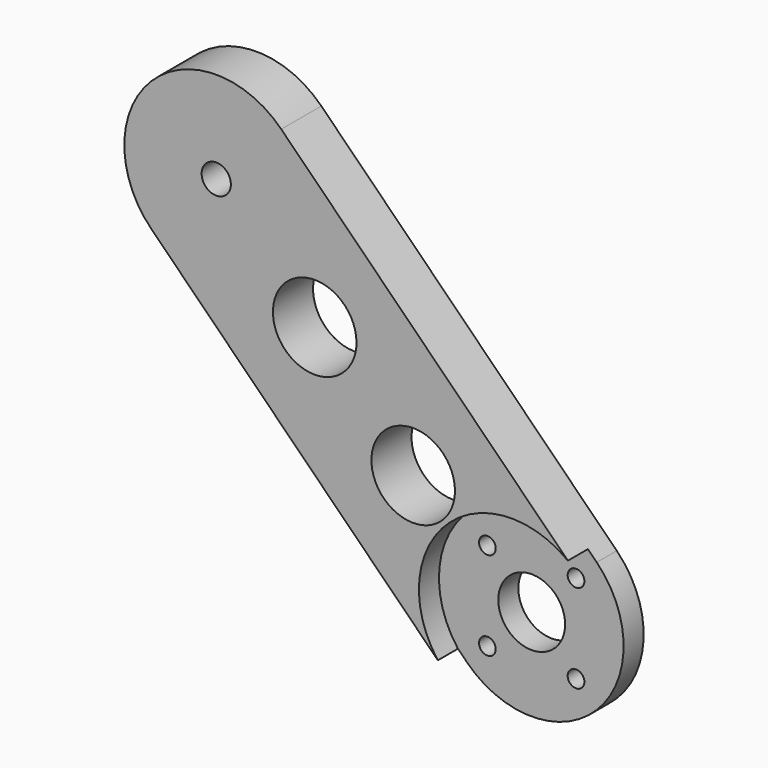
from build123d import *

# Parameters (mm, degrees)
CYLINDER020_R             = 11.1
CYLINDER020_DEPTH         = 26
CYLINDER019_R             = 4
CYLINDER019_DEPTH         = 43
CYLINDER021_R             = 1
CYLINDER021_DEPTH         = 31
CYLINDER024_R             = 1
CYLINDER024_DEPTH         = 31
CYLINDER023_R             = 1
CYLINDER023_DEPTH         = 31
CYLINDER022_R             = 1
CYLINDER022_DEPTH         = 31
FUSION002_ROLL_ANGLE      = -90
FUSION003_PLACEMENT_ANGLE = 180
SKETCH_R                  = 5
SKETCH_R_2                = 1.75
PAD_DEPTH                 = 6
CUT_PITCH_ANGLE           = 90
CLONE018_PITCH_ANGLE      = 45


with BuildPart() as cylinder141:
    # Cylinder020 → Cylinder020 (new body)
    with BuildSketch(Plane(origin=(-3, 71, 73), x_dir=(0, 0, 1), z_dir=(0, -1, 0))):
        Circle(CYLINDER020_R)
    extrude(amount=CYLINDER020_DEPTH)


with BuildPart() as fusion001:
    # Cylinder019 → Cylinder019 (new body)
    with BuildSketch(Plane(origin=(-3, 66, 73), x_dir=(0, 0, 1), z_dir=(0, -1, 0))):
        Circle(CYLINDER019_R)
    extrude(amount=CYLINDER019_DEPTH)

    # Fusion001: union Cylinder141
    add(cylinder141.part)


with BuildPart() as cylinder096:
    # Cylinder021 → Cylinder021 (new body)
    with BuildSketch(Plane(origin=(-7.5, -11, 132), x_dir=(1, 0, 0), z_dir=(0, 0, 1))):
        Circle(CYLINDER021_R)
    extrude(amount=CYLINDER021_DEPTH)


with BuildPart() as cylinder146:
    # Cylinder024 → Cylinder024 (new body)
    with BuildSketch(Plane(origin=(0, -3.5, 132), x_dir=(1, 0, 0), z_dir=(0, 0, 1))):
        Circle(CYLINDER024_R)
    extrude(amount=CYLINDER024_DEPTH)


with BuildPart() as cylinder145:
    # Cylinder023 → Cylinder023 (new body)
    with BuildSketch(Plane(origin=(7.5, -11, 132), x_dir=(1, 0, 0), z_dir=(0, 0, 1))):
        Circle(CYLINDER023_R)
    extrude(amount=CYLINDER023_DEPTH)


with BuildPart() as fusion003:
    # Cylinder022 → Cylinder022 (new body)
    with BuildSketch(Plane(origin=(0, -18.5, 132), x_dir=(1, 0, 0), z_dir=(0, 0, 1))):
        Circle(CYLINDER022_R)
    extrude(amount=CYLINDER022_DEPTH)

    # Fusion002: union Cylinder096, Cylinder146, Cylinder145
    add(cylinder096.part)
    add(cylinder146.part)
    add(cylinder145.part)


with BuildPart() as fusion003_1:
    # Fusion002 roll: moved
    add(fusion003.part.rotate(Axis((0, 0, 0), (1, 0, 0)), FUSION002_ROLL_ANGLE))


with BuildPart() as fusion003_2:
    # Fusion002 placement: moved
    add(fusion003_1.part.moved(Location((-3, -97.5, 62))))

    # Fusion003: union Fusion001
    add(fusion001.part)


with BuildPart() as fusion003_3:
    # Fusion003 placement: moved
    add(fusion003_2.part.moved(Location((-0.5, 88, -87))).rotate(Axis((-0.5, 88, -87), (0, 0, 1)), FUSION003_PLACEMENT_ANGLE))


with BuildPart() as clone_of_clone_of_cut:
    # Sketch → Pad (new body)
    with BuildSketch(Plane(origin=(-11.5, 40, -16.5), x_dir=(0, 0, -1), z_dir=(0, 1, 0))):
        with BuildLine():
            Line((-2.5, -3), (47.5, -3))
            ThreePointArc((47.5, -25), (58.5, -14), (47.5, -3))
            Line((-2.5, -25), (47.5, -25))
            ThreePointArc((-2.5, -3), (-13.5, -14), (-2.5, -25))
        make_face()
        with Locations((14.166667, -14)):
            Circle(SKETCH_R, mode=Mode.SUBTRACT)
        with Locations((30.833333, -14)):
            Circle(SKETCH_R, mode=Mode.SUBTRACT)
        with Locations((47.5, -14)):
            Circle(SKETCH_R_2, mode=Mode.SUBTRACT)
    extrude(amount=PAD_DEPTH)

    # Cut: cut Fusion003
    add(fusion003_3.part, mode=Mode.SUBTRACT)


with BuildPart() as clone_of_clone_of_cut_1:
    # Cut pitch: moved
    add(clone_of_clone_of_cut.part.rotate(Axis((0, 0, 0), (0, 1, 0)), CUT_PITCH_ANGLE))


with BuildPart() as clone_of_clone_of_cut_2:
    # Cut placement: moved
    add(clone_of_clone_of_cut_1.part.moved(Location((16.5, -87, -15))))


with BuildPart() as clone_of_clone_of_cut_3:
    # Clone010 placement: moved
    add(clone_of_clone_of_cut_2.part.moved(Location((0, 0, -22.5))))


with BuildPart() as clone_of_clone_of_cut_4:
    # Clone018 pitch: moved
    add(clone_of_clone_of_cut_3.part.rotate(Axis((0, 0, 0), (0, 1, 0)), CLONE018_PITCH_ANGLE))


with BuildPart() as clone_of_clone_of_cut_5:
    # Clone018 placement: moved
    add(clone_of_clone_of_cut_4.part.moved(Location((29.016504, 0, -80.65864))))


solid = clone_of_clone_of_cut_5.part
